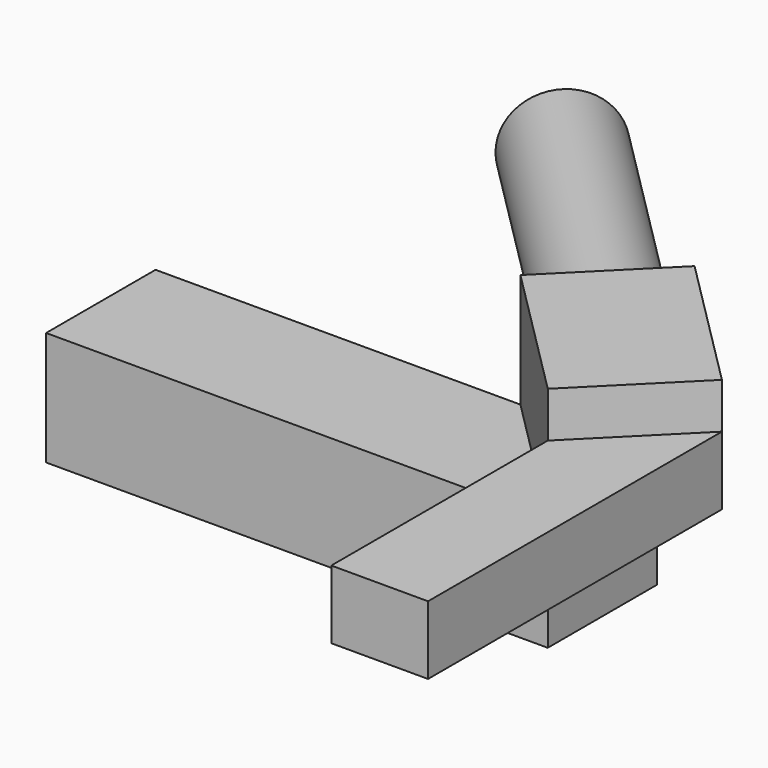
from build123d import *

# Parameters (mm, degrees)
F0_W     = 220
F0_H     = 60
F1_DEPTH = 50
F3_DEPTH = 50
F4_DEPTH = 25
F5_R     = 20
F6_DEPTH = 60
F6_TAPER = -3
F7_DEPTH = 199
F9_DEPTH = 30


with BuildPart() as f1:
    # F0 (on Top) → F1 (new body)
    with BuildSketch(Plane.XY):
        Rectangle(F0_W, F0_H)
    extrude(amount=F1_DEPTH)

    # F2 (on face) → F3 (join)
    with BuildSketch(Plane.XY.offset(50)):
        Polygon((50, 30), (110, -30), (152.4264068712, 12.4264068712), (92.4264068712, 72.4264068712), align=None)
    extrude(amount=F3_DEPTH)

    # F2 (on face) → F4 (join)
    with BuildSketch(Plane.XY.offset(50)):
        Polygon((50, 30), (110, -30), (152.4264068712, 12.4264068712), (92.4264068712, 72.4264068712), align=None)
    extrude(amount=F4_DEPTH)

    # F5 (on face) → F6 (cut)
    with BuildSketch(Plane(origin=(10, -10, 0), x_dir=(-0.7071067812, -0.7071067812, 0), z_dir=(-0.7071067812, 0.7071067812, 0))):
        with Locations((-86.5685424949, 75)):
            Circle(F5_R)
    extrude(amount=-F6_DEPTH, taper=F6_TAPER, mode=Mode.SUBTRACT)

    # F7 (add): a face of the model
    f7_faces = [f1.faces().sort_by_distance(p)[0] for p in [
        (113.6396103068, 8.7867965644, 75),
    ]]
    extrude(f7_faces, amount=F7_DEPTH)

    # F8 (on face) → F9 (join)
    with BuildSketch(Plane.XY.offset(50)):
        Polygon((152.4264068712, 12.4264068712), (110, -30), (110, -148.6592590809), (152.4264068712, -148.6592590809), align=None)
    extrude(amount=F9_DEPTH)


solid = f1.part
